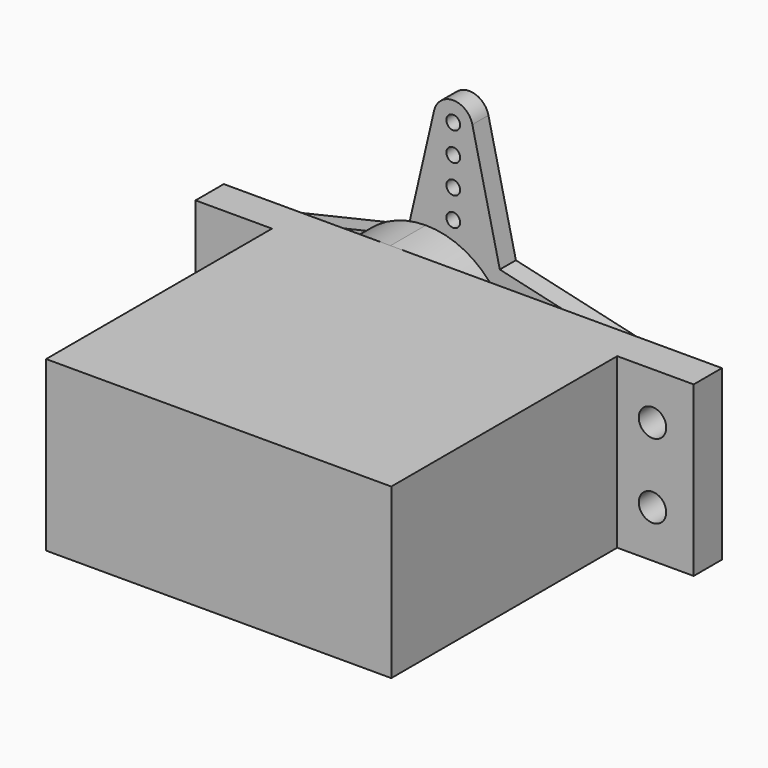
from build123d import *

# Parameters (mm, degrees)
F1_DEPTH = 8.6
F2_R     = 2.95
F3_DEPTH = 4.5
F4_DEPTH = 8
F5_R     = 1.4
F6_DEPTH = 3.6
F7_R     = 0.7
F7_R_2   = 4.75
F7_R_3   = 2.95
F7_R_4   = 1.4
F8_DEPTH = 2.05
F9_DEPTH = 3.5


with BuildPart() as f1:
    # F0 (on Top) → F1 (new body, symmetric)
    with BuildSketch(Plane.XY):
        Polygon((-17.6, -16.2), (17.6, -16.2), (17.6, 12.6), (25.4, 12.6), (25.4, 16.2), (17.6, 16.2), (-17.6, 16.2), (-25.4, 16.2), (-25.4, 12.6), (-17.6, 12.6), align=None)
    extrude(amount=F1_DEPTH, both=True)

    # F2 (on face) → F3 (join)
    with BuildSketch(Plane(origin=(0, 16.2, 0), x_dir=(-1, 0, 0), z_dir=(0, 1, 0))):
        with BuildLine():
            Line((-1, -4), (0.7868534757, -4))
            ThreePointArc((0.7868534757, -4), (3.9525288508, -7.3607065134), (8.400000099, -8.6))
            ThreePointArc((8.400000099, -8.6), (17, 4.95e-08), (8.4, 8.6))
            ThreePointArc((8.4, 8.6), (3.9525288084, 7.3607064878), (0.7868534757, 4))
            Line((0.7868534757, 4), (-1, 4))
            ThreePointArc((-1, 4), (-5, 0), (-1, -4))
        make_face()
        with Locations((8.4, 0)):
            Circle(F2_R, mode=Mode.SUBTRACT)
    extrude(amount=F3_DEPTH)

    # F2 (on face) → F4 (join)
    with BuildSketch(Plane(origin=(0, 16.2, 0), x_dir=(-1, 0, 0), z_dir=(0, 1, 0))):
        with Locations((8.4, 0)):
            Circle(F2_R)
    extrude(amount=F4_DEPTH)

    # F5 (on face) → F6 (cut, through all)
    with BuildSketch(Plane(origin=(0, 16.2, 0), x_dir=(-1, 0, 0), z_dir=(0, 1, 0))):
        with Locations((-21.2, 3.8)):
            Circle(F5_R)
        with Locations((-21.2, -3.8)):
            Circle(F5_R)
        with Locations((21.2, 3.8)):
            Circle(F5_R)
        with Locations((21.2, -3.8)):
            Circle(F5_R)
    extrude(amount=-F6_DEPTH, mode=Mode.SUBTRACT)


with BuildPart() as f8:
    # F7 (on face) → F8 (new body)
    with BuildSketch(Plane(origin=(0, 24.2, 0), x_dir=(-1, 0, 0), z_dir=(0, 1, 0))):
        with BuildLine():
            Line((13.15, -4.75), (25.2510909909, -1.9484652724))
            ThreePointArc((25.2510909909, -1.9484652724), (26.8, 0), (25.2510909909, 1.9484652724))
            Line((25.2510909909, 1.9484652724), (13.15, 4.75))
            Line((13.15, 4.75), (10.3484652724, 16.8510909909))
            ThreePointArc((10.3484652724, 16.8510909909), (8.4, 18.4), (6.4515347276, 16.8510909909))
            Line((6.4515347276, 16.8510909909), (3.65, 4.75))
            Line((3.65, 4.75), (-8.4510909909, 1.9484652724))
            ThreePointArc((-8.4510909909, 1.9484652724), (-10, 0), (-8.4510909909, -1.9484652724))
            Line((-8.4510909909, -1.9484652724), (3.65, -4.75))
            Line((3.65, -4.75), (6.4515347276, -16.8510909909))
            ThreePointArc((6.4515347276, -16.8510909909), (8.4, -18.4), (10.3484652724, -16.8510909909))
            Line((10.3484652724, -16.8510909909), (13.15, -4.75))
        make_face()
        with Locations((8.4, -16.4)):
            Circle(F7_R, mode=Mode.SUBTRACT)
        with Locations((8.4, -13.4833333333)):
            Circle(F7_R, mode=Mode.SUBTRACT)
        with Locations((8.4, -10.5666666667)):
            Circle(F7_R, mode=Mode.SUBTRACT)
        with Locations((8.4, -7.65)):
            Circle(F7_R, mode=Mode.SUBTRACT)
        with Locations((-8, 0)):
            Circle(F7_R, mode=Mode.SUBTRACT)
        with Locations((-5.0833333333, 0)):
            Circle(F7_R, mode=Mode.SUBTRACT)
        with Locations((-2.1666666667, 0)):
            Circle(F7_R, mode=Mode.SUBTRACT)
        with Locations((0.75, 0)):
            Circle(F7_R, mode=Mode.SUBTRACT)
        with Locations((8.4, 0)):
            Circle(F7_R_2, mode=Mode.SUBTRACT)
        with Locations((16.05, 0)):
            Circle(F7_R, mode=Mode.SUBTRACT)
        with Locations((8.4, 7.65)):
            Circle(F7_R, mode=Mode.SUBTRACT)
        with Locations((18.9666666667, 0)):
            Circle(F7_R, mode=Mode.SUBTRACT)
        with Locations((21.8833333333, 0)):
            Circle(F7_R, mode=Mode.SUBTRACT)
        with Locations((24.8, 0)):
            Circle(F7_R, mode=Mode.SUBTRACT)
        with Locations((8.4, 10.5666666667)):
            Circle(F7_R, mode=Mode.SUBTRACT)
        with Locations((8.4, 13.4833333333)):
            Circle(F7_R, mode=Mode.SUBTRACT)
        with Locations((8.4, 16.4)):
            Circle(F7_R, mode=Mode.SUBTRACT)
        with Locations((8.4, 0)):
            Circle(F7_R_2)
        with Locations((8.4, 0)):
            Circle(F7_R_3, mode=Mode.SUBTRACT)
        with Locations((8.4, 0)):
            Circle(F7_R_3)
        with Locations((8.4, 0)):
            Circle(F7_R_4, mode=Mode.SUBTRACT)
    extrude(amount=F8_DEPTH)

    # F7 (on face) → F9 (join)
    with BuildSketch(Plane(origin=(0, 24.2, 0), x_dir=(-1, 0, 0), z_dir=(0, 1, 0))):
        with Locations((8.4, 0)):
            Circle(F7_R_2)
        with Locations((8.4, 0)):
            Circle(F7_R_3, mode=Mode.SUBTRACT)
    extrude(amount=-F9_DEPTH)


solid = Compound([f1.part, f8.part])
